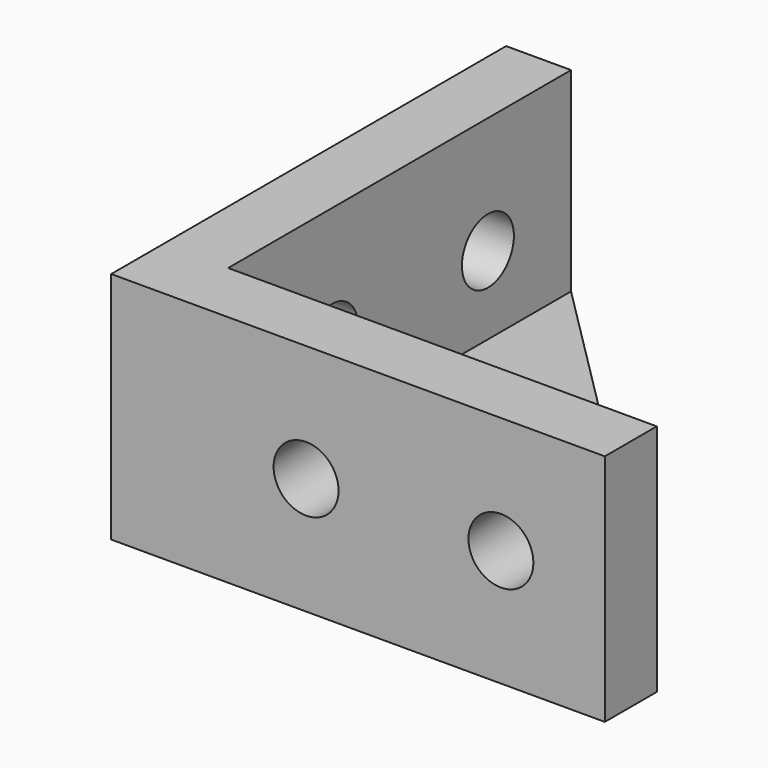
from build123d import *

# Parameters (mm, degrees)
PAD_DEPTH            = 9
SKETCH001_W          = 37.346859
SKETCH001_H          = 35.838272
POCKET_DEPTH         = 6
POCKET_DEPTH_BACK    = 100
SKETCH002_R          = 2.5
POCKET001_DEPTH      = 38.001
SKETCH003_R          = 2.5
POCKET002_DEPTH      = 38.001
SKETCH004_W          = 20
SKETCH004_H          = 20
POCKET003_DEPTH      = 9.001
POCKET003_DEPTH_BACK = 9.001


with BuildPart() as part:
    # Sketch → Pad (new body, symmetric)
    with BuildSketch(Plane.XY):
        Polygon((0, 0), (0, 38), (5, 38), (38, 5), (38, 0), align=None)
    extrude(amount=PAD_DEPTH, both=True)

    # Sketch001 → Pocket (cut, two sides)
    with BuildSketch(Plane.XY) as pocket_sk:
        with Locations((23.673429, 22.919136)):
            Rectangle(SKETCH001_W, SKETCH001_H)
    extrude(amount=-POCKET_DEPTH, mode=Mode.SUBTRACT)
    extrude(pocket_sk.sketch, amount=POCKET_DEPTH_BACK, mode=Mode.SUBTRACT)

    # Sketch002 (on Face2 of Pocket) → Pocket001 (cut, through all)
    with BuildSketch(Plane.XZ):
        with Locations((15, 0)):
            Circle(SKETCH002_R)
        with Locations((30, 0)):
            Circle(SKETCH002_R)
    extrude(amount=-POCKET001_DEPTH, mode=Mode.SUBTRACT)

    # Sketch003 (on Face1 of Pocket001) → Pocket002 (cut, through all)
    with BuildSketch(Plane(origin=(0, 0, 0), x_dir=(0, -1, 0), z_dir=(-1, 0, 0))):
        with Locations((-30, 0)):
            Circle(SKETCH003_R)
        with Locations((-15, 0)):
            Circle(SKETCH003_R)
    extrude(amount=-POCKET002_DEPTH, mode=Mode.SUBTRACT)

    # Sketch004 → Pocket003 (cut, two sides)
    with BuildSketch(Plane.XY) as pocket003_sk:
        with Locations((30, 15)):
            Rectangle(SKETCH004_W, SKETCH004_H)
    extrude(amount=-POCKET003_DEPTH, mode=Mode.SUBTRACT)
    extrude(pocket003_sk.sketch, amount=POCKET003_DEPTH_BACK, mode=Mode.SUBTRACT)


solid = part.part
